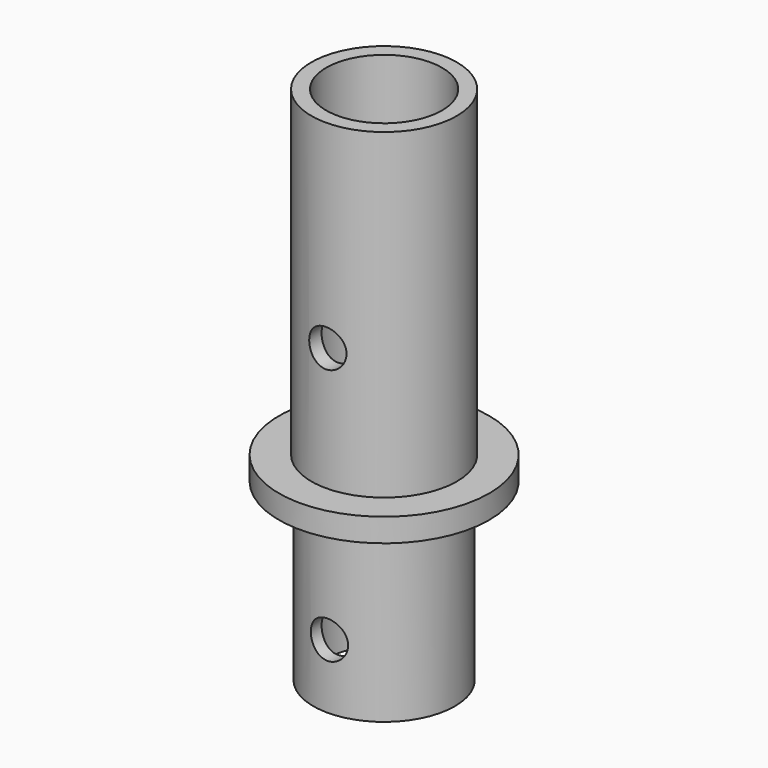
from build123d import *

# Parameters (mm, degrees)
F0_R     = 5.5
F1_DEPTH = 13.6
F2_R     = 8.165
F3_DEPTH = 1.82
F4_R     = 5.65
F5_DEPTH = 25
F6_R     = 4.5
F7_DEPTH = 40.421
F8_R     = 1.45
F9_DEPTH = 12


with BuildPart() as f1:
    # F0 (on Top) → F1 (new body)
    with BuildSketch(Plane.XY):
        Circle(F0_R)
    extrude(amount=F1_DEPTH)

    # F2 (on face) → F3 (join)
    with BuildSketch(Plane.XY.offset(13.6)):
        Circle(F2_R)
    extrude(amount=F3_DEPTH)

    # F4 (on face) → F5 (join)
    with BuildSketch(Plane.XY.offset(15.42)):
        Circle(F4_R)
    extrude(amount=F5_DEPTH)

    # F6 (on face) → F7 (cut, through all)
    with BuildSketch(Plane(origin=(0, 0, 0), x_dir=(1, 0, 0), z_dir=(0, 0, -1))):
        Circle(F6_R)
    extrude(amount=-F7_DEPTH, mode=Mode.SUBTRACT)

    # F8 (on Front) → F9 (cut)
    with BuildSketch(Plane.XZ):
        with Locations((0, 25)):
            Circle(F8_R)
        with Locations((0, 5)):
            Circle(F8_R)
    extrude(amount=F9_DEPTH, mode=Mode.SUBTRACT)


solid = f1.part
